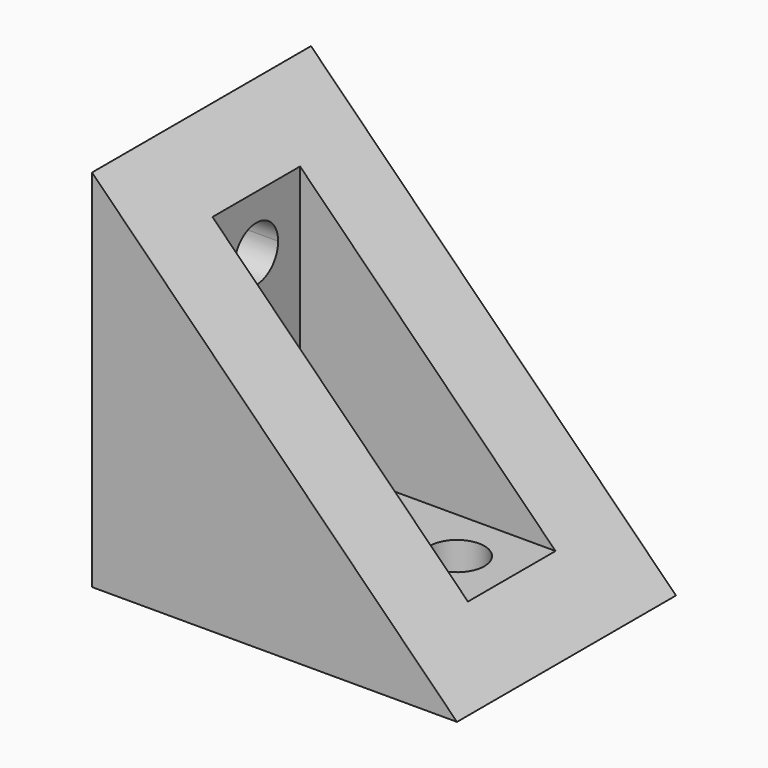
from build123d import *

# Parameters (mm, degrees)
F1_DEPTH = 4.5
F3_DEPTH = 6
F5_DEPTH = 4.5
F7_DEPTH = 3.001
F8_R     = 1.5
F9_DEPTH = 25


with BuildPart() as f1:
    # F0 (on Front) → F1 (new body)
    with BuildSketch(Plane.XZ):
        Polygon((0, 20), (0, 0), (20, 0), align=None)
    extrude(amount=F1_DEPTH)

    # F2 (on face) → F3 (join)
    with BuildSketch(Plane.XZ.offset(4.5)):
        Polygon((15, 3), (3, 3), (3, 15), (3, 17), (0, 20), (0, 0), (20, 0), (17, 3), align=None)
    extrude(amount=F3_DEPTH)

    # F4 (on face) → F5 (join)
    with BuildSketch(Plane.XZ.offset(10.5)):
        Polygon((20, 0), (0, 20), (0, 0), align=None)
    extrude(amount=F5_DEPTH)

    # F6 (on face) → F7 (cut, through all)
    with BuildSketch(Plane.YZ.offset(3)):
        with BuildLine():
            ThreePointArc((-7.5, 15.5), (-8.56066, 12.93934), (-6, 14))
            ThreePointArc((-6, 14), (-6.43934, 15.06066), (-7.5, 15.5))
        make_face()
    extrude(amount=-F7_DEPTH, mode=Mode.SUBTRACT)

    # F8 (on face) → F9 (cut)
    with BuildSketch(Plane.XY.offset(3)):
        with Locations((14, -7.5)):
            Circle(F8_R)
    extrude(amount=-F9_DEPTH, mode=Mode.SUBTRACT)


solid = f1.part
